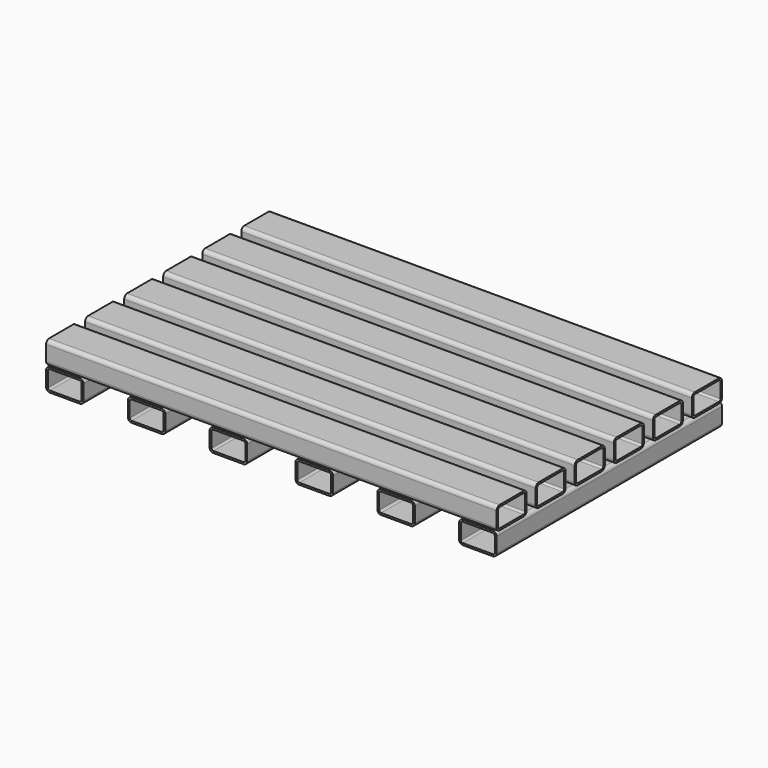
from build123d import *

# Parameters (mm, degrees)
F1_DEPTH = 381
F4_DEPTH = 476.25


with BuildPart() as f1:
    # F0 (on Right) → F1 (new body, symmetric)
    with BuildSketch(Plane.YZ):
        with BuildLine():
            Line((57.15, 0), (6.35, 0))
            ThreePointArc((6.35, 0), (1.859872, -1.859872), (0, -6.35))
            Line((0, -6.35), (0, -31.75))
            ThreePointArc((0, -31.75), (1.859872, -36.240128), (6.35, -38.1))
            Line((6.35, -38.1), (57.15, -38.1))
            ThreePointArc((57.15, -38.1), (61.640128, -36.240128), (63.5, -31.75))
            Line((63.5, -31.75), (63.5, -6.35))
            ThreePointArc((63.5, -6.35), (61.640128, -1.859872), (57.15, 0))
        make_face()
        with BuildLine():
            ThreePointArc((3.175, -6.35), (4.104936, -4.104936), (6.35, -3.175))
            Line((6.35, -3.175), (57.15, -3.175))
            ThreePointArc((57.15, -3.175), (59.395064, -4.104936), (60.325, -6.35))
            Line((60.325, -6.35), (60.325, -31.75))
            ThreePointArc((60.325, -31.75), (59.395064, -33.995064), (57.15, -34.925))
            Line((57.15, -34.925), (6.35, -34.925))
            ThreePointArc((6.35, -34.925), (4.104936, -33.995064), (3.175, -31.75))
            Line((3.175, -31.75), (3.175, -6.35))
        make_face(mode=Mode.SUBTRACT)
        with BuildLine():
            Line((139.7, 0), (88.9, 0))
            ThreePointArc((88.9, 0), (84.409872, -1.859872), (82.55, -6.35))
            Line((82.55, -6.35), (82.55, -31.75))
            ThreePointArc((82.55, -31.75), (84.409872, -36.240128), (88.9, -38.1))
            Line((88.9, -38.1), (139.7, -38.1))
            ThreePointArc((139.7, -38.1), (144.190128, -36.240128), (146.05, -31.75))
            Line((146.05, -31.75), (146.05, -6.35))
            ThreePointArc((146.05, -6.35), (144.190128, -1.859872), (139.7, 0))
        make_face()
        with BuildLine():
            ThreePointArc((85.725, -6.35), (86.654936, -4.104936), (88.9, -3.175))
            Line((88.9, -3.175), (139.7, -3.175))
            ThreePointArc((139.7, -3.175), (141.945064, -4.104936), (142.875, -6.35))
            Line((142.875, -6.35), (142.875, -31.75))
            ThreePointArc((142.875, -31.75), (141.945064, -33.995064), (139.7, -34.925))
            Line((139.7, -34.925), (88.9, -34.925))
            ThreePointArc((88.9, -34.925), (86.654936, -33.995064), (85.725, -31.75))
            Line((85.725, -31.75), (85.725, -6.35))
        make_face(mode=Mode.SUBTRACT)
        with BuildLine():
            Line((222.25, 0), (171.45, 0))
            ThreePointArc((171.45, 0), (166.959872, -1.859872), (165.1, -6.35))
            Line((165.1, -6.35), (165.1, -31.75))
            ThreePointArc((165.1, -31.75), (166.959872, -36.240128), (171.45, -38.1))
            Line((171.45, -38.1), (222.25, -38.1))
            ThreePointArc((222.25, -38.1), (226.740128, -36.240128), (228.6, -31.75))
            Line((228.6, -31.75), (228.6, -6.35))
            ThreePointArc((228.6, -6.35), (226.740128, -1.859872), (222.25, 0))
        make_face()
        with BuildLine():
            ThreePointArc((168.275, -6.35), (169.204936, -4.104936), (171.45, -3.175))
            Line((171.45, -3.175), (222.25, -3.175))
            ThreePointArc((222.25, -3.175), (224.495064, -4.104936), (225.425, -6.35))
            Line((225.425, -6.35), (225.425, -31.75))
            ThreePointArc((225.425, -31.75), (224.495064, -33.995064), (222.25, -34.925))
            Line((222.25, -34.925), (171.45, -34.925))
            ThreePointArc((171.45, -34.925), (169.204936, -33.995064), (168.275, -31.75))
            Line((168.275, -31.75), (168.275, -6.35))
        make_face(mode=Mode.SUBTRACT)
        with BuildLine():
            Line((304.8, 0), (254, 0))
            ThreePointArc((254, 0), (249.509872, -1.859872), (247.65, -6.35))
            Line((247.65, -6.35), (247.65, -31.75))
            ThreePointArc((247.65, -31.75), (249.509872, -36.240128), (254, -38.1))
            Line((254, -38.1), (304.8, -38.1))
            ThreePointArc((304.8, -38.1), (309.290128, -36.240128), (311.15, -31.75))
            Line((311.15, -31.75), (311.15, -6.35))
            ThreePointArc((311.15, -6.35), (309.290128, -1.859872), (304.8, 0))
        make_face()
        with BuildLine():
            ThreePointArc((250.825, -6.35), (251.754936, -4.104936), (254, -3.175))
            Line((254, -3.175), (304.8, -3.175))
            ThreePointArc((304.8, -3.175), (307.045064, -4.104936), (307.975, -6.35))
            Line((307.975, -6.35), (307.975, -31.75))
            ThreePointArc((307.975, -31.75), (307.045064, -33.995064), (304.8, -34.925))
            Line((304.8, -34.925), (254, -34.925))
            ThreePointArc((254, -34.925), (251.754936, -33.995064), (250.825, -31.75))
            Line((250.825, -31.75), (250.825, -6.35))
        make_face(mode=Mode.SUBTRACT)
        with BuildLine():
            Line((387.35, 0), (336.55, 0))
            ThreePointArc((336.55, 0), (332.059872, -1.859872), (330.2, -6.35))
            Line((330.2, -6.35), (330.2, -31.75))
            ThreePointArc((330.2, -31.75), (332.059872, -36.240128), (336.55, -38.1))
            Line((336.55, -38.1), (387.35, -38.1))
            ThreePointArc((387.35, -38.1), (391.840128, -36.240128), (393.7, -31.75))
            Line((393.7, -31.75), (393.7, -6.35))
            ThreePointArc((393.7, -6.35), (391.840128, -1.859872), (387.35, 0))
        make_face()
        with BuildLine():
            ThreePointArc((333.375, -6.35), (334.304936, -4.104936), (336.55, -3.175))
            Line((336.55, -3.175), (387.35, -3.175))
            ThreePointArc((387.35, -3.175), (389.595064, -4.104936), (390.525, -6.35))
            Line((390.525, -6.35), (390.525, -31.75))
            ThreePointArc((390.525, -31.75), (389.595064, -33.995064), (387.35, -34.925))
            Line((387.35, -34.925), (336.55, -34.925))
            ThreePointArc((336.55, -34.925), (334.304936, -33.995064), (333.375, -31.75))
            Line((333.375, -31.75), (333.375, -6.35))
        make_face(mode=Mode.SUBTRACT)
        with BuildLine():
            Line((469.9, 0), (419.1, 0))
            ThreePointArc((419.1, 0), (414.609872, -1.859872), (412.75, -6.35))
            Line((412.75, -6.35), (412.75, -31.75))
            ThreePointArc((412.75, -31.75), (414.609872, -36.240128), (419.1, -38.1))
            Line((419.1, -38.1), (469.9, -38.1))
            ThreePointArc((469.9, -38.1), (474.390128, -36.240128), (476.25, -31.75))
            Line((476.25, -31.75), (476.25, -6.35))
            ThreePointArc((476.25, -6.35), (474.390128, -1.859872), (469.9, 0))
        make_face()
        with BuildLine():
            ThreePointArc((415.925, -6.35), (416.854936, -4.104936), (419.1, -3.175))
            Line((419.1, -3.175), (469.9, -3.175))
            ThreePointArc((469.9, -3.175), (472.145064, -4.104936), (473.075, -6.35))
            Line((473.075, -6.35), (473.075, -31.75))
            ThreePointArc((473.075, -31.75), (472.145064, -33.995064), (469.9, -34.925))
            Line((469.9, -34.925), (419.1, -34.925))
            ThreePointArc((419.1, -34.925), (416.854936, -33.995064), (415.925, -31.75))
            Line((415.925, -31.75), (415.925, -6.35))
        make_face(mode=Mode.SUBTRACT)
    extrude(amount=F1_DEPTH, both=True)


with BuildPart() as f4:
    # F2 (on Front) + F3 (on Front) → F4 (new body, through all)
    with BuildSketch(Plane.XZ):
        with BuildLine():
            Line((-185.5216, -38.1), (-236.3216, -38.1))
            ThreePointArc((-236.3216, -38.1), (-240.811728, -39.959872), (-242.6716, -44.45))
            Line((-242.6716, -44.45), (-242.6716, -69.85))
            ThreePointArc((-242.6716, -69.85), (-240.811728, -74.340128), (-236.3216, -76.2))
            Line((-236.3216, -76.2), (-185.5216, -76.2))
            ThreePointArc((-185.5216, -76.2), (-181.031472, -74.340128), (-179.1716, -69.85))
            Line((-179.1716, -69.85), (-179.1716, -44.45))
            ThreePointArc((-179.1716, -44.45), (-181.031472, -39.959872), (-185.5216, -38.1))
        make_face()
        with BuildLine():
            ThreePointArc((-239.4966, -44.45), (-238.566664, -42.204936), (-236.3216, -41.275))
            Line((-236.3216, -41.275), (-185.5216, -41.275))
            ThreePointArc((-185.5216, -41.275), (-183.276536, -42.204936), (-182.3466, -44.45))
            Line((-182.3466, -44.45), (-182.3466, -69.85))
            ThreePointArc((-182.3466, -69.85), (-183.276536, -72.095064), (-185.5216, -73.025))
            Line((-185.5216, -73.025), (-236.3216, -73.025))
            ThreePointArc((-236.3216, -73.025), (-238.566664, -72.095064), (-239.4966, -69.85))
            Line((-239.4966, -69.85), (-239.4966, -44.45))
        make_face(mode=Mode.SUBTRACT)
        with BuildLine():
            Line((236.3216, -38.1), (185.5216, -38.1))
            ThreePointArc((185.5216, -38.1), (181.031472, -39.959872), (179.1716, -44.45))
            Line((179.1716, -44.45), (179.1716, -69.85))
            ThreePointArc((179.1716, -69.85), (181.031472, -74.340128), (185.5216, -76.2))
            Line((185.5216, -76.2), (236.3216, -76.2))
            ThreePointArc((236.3216, -76.2), (240.811728, -74.340128), (242.6716, -69.85))
            Line((242.6716, -69.85), (242.6716, -44.45))
            ThreePointArc((242.6716, -44.45), (240.811728, -39.959872), (236.3216, -38.1))
        make_face()
        with BuildLine():
            ThreePointArc((182.3466, -44.45), (183.276536, -42.204936), (185.5216, -41.275))
            Line((185.5216, -41.275), (236.3216, -41.275))
            ThreePointArc((236.3216, -41.275), (238.566664, -42.204936), (239.4966, -44.45))
            Line((239.4966, -44.45), (239.4966, -69.85))
            ThreePointArc((239.4966, -69.85), (238.566664, -72.095064), (236.3216, -73.025))
            Line((236.3216, -73.025), (185.5216, -73.025))
            ThreePointArc((185.5216, -73.025), (183.276536, -72.095064), (182.3466, -69.85))
            Line((182.3466, -69.85), (182.3466, -44.45))
        make_face(mode=Mode.SUBTRACT)
    with BuildSketch(Plane.XZ):
        with BuildLine():
            Line((-323.85, -38.1), (-374.65, -38.1))
            ThreePointArc((-374.65, -38.1), (-379.140128, -39.959872), (-381, -44.45))
            Line((-381, -44.45), (-381, -69.85))
            ThreePointArc((-381, -69.85), (-379.140128, -74.340128), (-374.65, -76.2))
            Line((-374.65, -76.2), (-323.85, -76.2))
            ThreePointArc((-323.85, -76.2), (-319.359872, -74.340128), (-317.5, -69.85))
            Line((-317.5, -69.85), (-317.5, -44.45))
            ThreePointArc((-317.5, -44.45), (-319.359872, -39.959872), (-323.85, -38.1))
        make_face()
        with BuildLine():
            ThreePointArc((-377.825, -44.45), (-376.895064, -42.204936), (-374.65, -41.275))
            Line((-374.65, -41.275), (-323.85, -41.275))
            ThreePointArc((-323.85, -41.275), (-321.604936, -42.204936), (-320.675, -44.45))
            Line((-320.675, -44.45), (-320.675, -69.85))
            ThreePointArc((-320.675, -69.85), (-321.604936, -72.095064), (-323.85, -73.025))
            Line((-323.85, -73.025), (-374.65, -73.025))
            ThreePointArc((-374.65, -73.025), (-376.895064, -72.095064), (-377.825, -69.85))
            Line((-377.825, -69.85), (-377.825, -44.45))
        make_face(mode=Mode.SUBTRACT)
        with BuildLine():
            Line((-47.1932, -38.1), (-97.9932, -38.1))
            ThreePointArc((-97.9932, -38.1), (-102.483328, -39.959872), (-104.3432, -44.45))
            Line((-104.3432, -44.45), (-104.3432, -69.85))
            ThreePointArc((-104.3432, -69.85), (-102.483328, -74.340128), (-97.9932, -76.2))
            Line((-97.9932, -76.2), (-47.1932, -76.2))
            ThreePointArc((-47.1932, -76.2), (-42.703072, -74.340128), (-40.8432, -69.85))
            Line((-40.8432, -69.85), (-40.8432, -44.45))
            ThreePointArc((-40.8432, -44.45), (-42.703072, -39.959872), (-47.1932, -38.1))
        make_face()
        with BuildLine():
            ThreePointArc((-101.1682, -44.45), (-100.238264, -42.204936), (-97.9932, -41.275))
            Line((-97.9932, -41.275), (-47.1932, -41.275))
            ThreePointArc((-47.1932, -41.275), (-44.948136, -42.204936), (-44.0182, -44.45))
            Line((-44.0182, -44.45), (-44.0182, -69.85))
            ThreePointArc((-44.0182, -69.85), (-44.948136, -72.095064), (-47.1932, -73.025))
            Line((-47.1932, -73.025), (-97.9932, -73.025))
            ThreePointArc((-97.9932, -73.025), (-100.238264, -72.095064), (-101.1682, -69.85))
            Line((-101.1682, -69.85), (-101.1682, -44.45))
        make_face(mode=Mode.SUBTRACT)
        with BuildLine():
            Line((97.9932, -38.1), (47.1932, -38.1))
            ThreePointArc((47.1932, -38.1), (42.703072, -39.959872), (40.8432, -44.45))
            Line((40.8432, -44.45), (40.8432, -69.85))
            ThreePointArc((40.8432, -69.85), (42.703072, -74.340128), (47.1932, -76.2))
            Line((47.1932, -76.2), (97.9932, -76.2))
            ThreePointArc((97.9932, -76.2), (102.483328, -74.340128), (104.3432, -69.85))
            Line((104.3432, -69.85), (104.3432, -44.45))
            ThreePointArc((104.3432, -44.45), (102.483328, -39.959872), (97.9932, -38.1))
        make_face()
        with BuildLine():
            ThreePointArc((44.0182, -44.45), (44.948136, -42.204936), (47.1932, -41.275))
            Line((47.1932, -41.275), (97.9932, -41.275))
            ThreePointArc((97.9932, -41.275), (100.238264, -42.204936), (101.1682, -44.45))
            Line((101.1682, -44.45), (101.1682, -69.85))
            ThreePointArc((101.1682, -69.85), (100.238264, -72.095064), (97.9932, -73.025))
            Line((97.9932, -73.025), (47.1932, -73.025))
            ThreePointArc((47.1932, -73.025), (44.948136, -72.095064), (44.0182, -69.85))
            Line((44.0182, -69.85), (44.0182, -44.45))
        make_face(mode=Mode.SUBTRACT)
        with BuildLine():
            Line((374.65, -38.1), (323.85, -38.1))
            ThreePointArc((323.85, -38.1), (319.359872, -39.959872), (317.5, -44.45))
            Line((317.5, -44.45), (317.5, -69.85))
            ThreePointArc((317.5, -69.85), (319.359872, -74.340128), (323.85, -76.2))
            Line((323.85, -76.2), (374.65, -76.2))
            ThreePointArc((374.65, -76.2), (379.140128, -74.340128), (381, -69.85))
            Line((381, -69.85), (381, -44.45))
            ThreePointArc((381, -44.45), (379.140128, -39.959872), (374.65, -38.1))
        make_face()
        with BuildLine():
            ThreePointArc((320.675, -44.45), (321.604936, -42.204936), (323.85, -41.275))
            Line((323.85, -41.275), (374.65, -41.275))
            ThreePointArc((374.65, -41.275), (376.895064, -42.204936), (377.825, -44.45))
            Line((377.825, -44.45), (377.825, -69.85))
            ThreePointArc((377.825, -69.85), (376.895064, -72.095064), (374.65, -73.025))
            Line((374.65, -73.025), (323.85, -73.025))
            ThreePointArc((323.85, -73.025), (321.604936, -72.095064), (320.675, -69.85))
            Line((320.675, -69.85), (320.675, -44.45))
        make_face(mode=Mode.SUBTRACT)
    extrude(amount=-F4_DEPTH)


solid = Compound([f1.part, f4.part])
